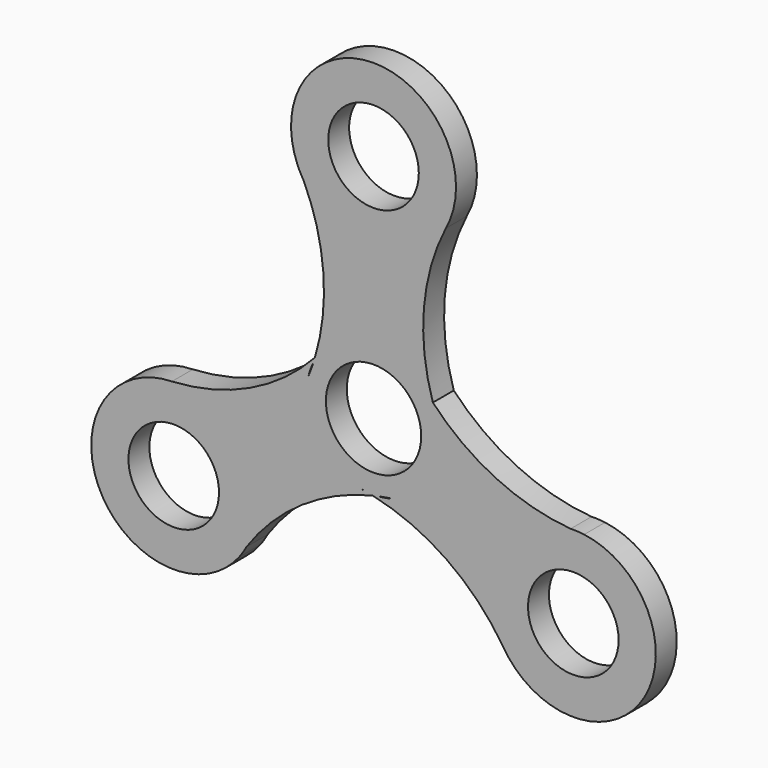
from build123d import *

# Parameters (mm, degrees)
F0_R     = 10.9982
F0_R_2   = 11.5743290876
F1_DEPTH = 6.35


with BuildPart() as f1:
    # F0 (on Front) → F1 (new body)
    with BuildSketch(Plane.XZ):
        with BuildLine():
            ThreePointArc((14.4150879501, 8.1138044881), (12.2307022641, 27.5699706083), (17.5684995614, 46.4066863766))
            ThreePointArc((17.5684995614, 46.4066863766), (1.0973431657, 76.0425754658), (-18.5164931455, 48.3860691738))
            ThreePointArc((-18.5164931455, 48.3860691738), (-17.7414613596, 46.9332176395), (-17.0130948181, 45.4564190644))
            ThreePointArc((-17.0130948181, 45.4564190644), (-12.1840612137, 27.1997940984), (-14.2343047831, 8.4269301185))
            ThreePointArc((-14.2343047831, 8.4269301185), (-29.9916460604, -3.1928864373), (-48.9736190883, -7.9885762617))
            ThreePointArc((-48.9736190883, -7.9885762617), (-66.4034737054, -37.0709606747), (-32.6453185211, -40.2287880399))
            ThreePointArc((-32.6453185211, -40.2287880399), (-31.7746280773, -38.8311650574), (-30.8598662658, -37.4619818417))
            ThreePointArc((-30.8598662658, -37.4619818417), (-17.4636820601, -24.1516035815), (-0.180783167, -16.5407346066))
            ThreePointArc((-0.180783167, -16.5407346066), (17.7609437963, -24.377084171), (31.4051195269, -38.4181101149))
            ThreePointArc((31.4051195269, -38.4181101149), (65.3061305397, -38.9716147911), (51.1618116665, -8.1572811339))
            ThreePointArc((51.1618116665, -8.1572811339), (49.5160894369, -8.1020525821), (47.8729610839, -7.9944372227))
            ThreePointArc((47.8729610839, -7.9944372227), (29.6477432738, -3.0481905169), (14.4150879501, 8.1138044881))
        make_face()
        with Locations((-48.5299344863, -28.0187707394)):
            Circle(F0_R, mode=Mode.SUBTRACT)
        with BuildLine():
            ThreePointArc((-3.3619106967, -15.9422817197), (-2.7074633767, -16.0483031057), (-2.0544558376, -16.1628586944))
            ThreePointArc((-2.0544558376, -16.1628586944), (-2.7104280398, -16.0658759427), (-3.3619106967, -15.9422817197))
        make_face(mode=Mode.SUBTRACT)
        with BuildLine():
            ThreePointArc((1.1048933647, -16.255399122), (0.4611464264, -16.3939725301), (-0.180783167, -16.5407346066))
            ThreePointArc((-0.180783167, -16.5407346066), (-1.1158416097, -16.3429810878), (-2.0544558376, -16.1628586944))
            ThreePointArc((-2.0544558376, -16.1628586944), (-0.47703056, -16.285921276), (1.1048933647, -16.255399122))
        make_face(mode=Mode.SUBTRACT)
        with BuildLine():
            ThreePointArc((-15.8019560642, 3.9695055747), (-15.2999558763, 5.6009052972), (-14.6300352707, 7.1708338387))
            ThreePointArc((-14.6300352707, 7.1708338387), (-15.1895990274, 5.5605066017), (-15.8019560642, 3.9695055747))
        make_face(mode=Mode.SUBTRACT)
        with BuildLine():
            ThreePointArc((-14.6300352707, 7.1708338387), (-14.4281698933, 7.7976217449), (-14.2343047831, 8.4269301185))
            ThreePointArc((-14.2343047831, 8.4269301185), (-13.5955159908, 9.1378377245), (-12.9702183083, 9.8606402935))
            ThreePointArc((-12.9702183083, 9.8606402935), (-13.8655062691, 8.5560812213), (-14.6300352707, 7.1708338387))
        make_face(mode=Mode.SUBTRACT)
        with BuildLine():
            ThreePointArc((-12.1254656152, 10.8826409285), (-12.5445064888, 10.3688836169), (-12.9702183083, 9.8606402935))
            ThreePointArc((-12.9702183083, 9.8606402935), (-12.5582426805, 10.3802375089), (-12.1254656152, 10.8826409285))
        make_face(mode=Mode.SUBTRACT)
        with Locations((48.5299344863, -28.0187707394)):
            Circle(F0_R, mode=Mode.SUBTRACT)
        with BuildLine():
            ThreePointArc((4.4632853639, -15.6696481685), (2.7994516666, -16.0506031142), (1.1048933647, -16.255399122))
            ThreePointArc((1.1048933647, -16.255399122), (2.7792595388, -15.9348319319), (4.4632853639, -15.6696481685))
        make_face(mode=Mode.SUBTRACT)
        Circle(F0_R_2, mode=Mode.SUBTRACT)
        with BuildLine():
            ThreePointArc((15.4873763119, 5.0596407912), (15.2519698655, 5.6794194888), (15.0246741459, 6.3022184009))
            ThreePointArc((15.0246741459, 6.3022184009), (15.2686707203, 5.6856384337), (15.4873763119, 5.0596407912))
        make_face(mode=Mode.SUBTRACT)
        with BuildLine():
            ThreePointArc((13.525141906, 9.0845652833), (13.9670234668, 8.5963507852), (14.4150879501, 8.1138044881))
            ThreePointArc((14.4150879501, 8.1138044881), (14.7113576004, 7.2051433633), (15.0246741459, 6.3022184009))
            ThreePointArc((15.0246741459, 6.3022184009), (14.3425368291, 7.7298400547), (13.525141906, 9.0845652833))
        make_face(mode=Mode.SUBTRACT)
        with Locations((0, 56.0375414789)):
            Circle(F0_R, mode=Mode.SUBTRACT)
        with BuildLine():
            ThreePointArc((-12.9702183083, 9.8606402935), (-13.5955159908, 9.1378377245), (-14.2343047831, 8.4269301185))
            ThreePointArc((-14.2343047831, 8.4269301185), (-14.4281698933, 7.7976217449), (-14.6300352707, 7.1708338387))
            ThreePointArc((-14.6300352707, 7.1708338387), (-13.8655062691, 8.5560812213), (-12.9702183083, 9.8606402935))
        make_face()
        with BuildLine():
            ThreePointArc((-2.0544558376, -16.1628586944), (-1.1158416097, -16.3429810878), (-0.180783167, -16.5407346066))
            ThreePointArc((-0.180783167, -16.5407346066), (0.4611464264, -16.3939725301), (1.1048933647, -16.255399122))
            ThreePointArc((1.1048933647, -16.255399122), (-0.47703056, -16.285921276), (-2.0544558376, -16.1628586944))
        make_face()
        with BuildLine():
            ThreePointArc((15.0246741459, 6.3022184009), (14.7113576004, 7.2051433633), (14.4150879501, 8.1138044881))
            ThreePointArc((14.4150879501, 8.1138044881), (13.9670234668, 8.5963507852), (13.525141906, 9.0845652833))
            ThreePointArc((13.525141906, 9.0845652833), (14.3425368291, 7.7298400547), (15.0246741459, 6.3022184009))
        make_face()
        with BuildLine():
            ThreePointArc((-17.0130948181, 45.4564190644), (-17.7414613596, 46.9332176395), (-18.5164931455, 48.3860691738))
            ThreePointArc((-18.5164931455, 48.3860691738), (-17.8250839453, 46.8903053289), (-17.0130948181, 45.4564190644))
        make_face()
        with BuildLine():
            ThreePointArc((51.1618116665, -8.1572811339), (49.5207375787, -8.0081771432), (47.8729610839, -7.9944372227))
            ThreePointArc((47.8729610839, -7.9944372227), (49.5160894369, -8.1020525821), (51.1618116665, -8.1572811339))
        make_face()
        with BuildLine():
            ThreePointArc((-30.8598662658, -37.4619818417), (-31.7746280773, -38.8311650574), (-32.6453185211, -40.2287880399))
            ThreePointArc((-32.6453185211, -40.2287880399), (-31.6956536334, -38.8821281857), (-30.8598662658, -37.4619818417))
        make_face()
    extrude(amount=F1_DEPTH)


solid = f1.part
